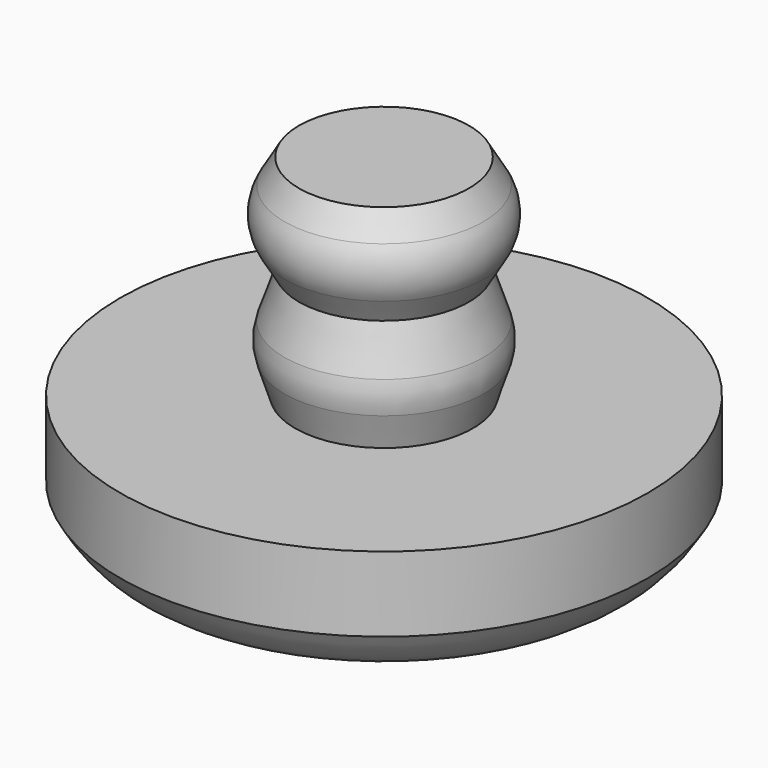
from build123d import *


with BuildPart() as f1:
    # F0 (on Front) → F1 (revolve)
    with BuildSketch(Plane.XZ):
        with BuildLine():
            Line((-32.3, -22), (-34, -22))
            Line((-34, -22), (-34.2897262281, -22.4944133585))
            ThreePointArc((-34.2897262281, -22.4944133585), (-34.4269503893, -23), (-34.2897262281, -23.5055866415))
            Line((-34.2897262281, -23.5055866415), (-34, -24))
            Line((-34, -24), (-34.2935919125, -24.8799841854))
            ThreePointArc((-34.2935919125, -24.8799841854), (-34.346391508, -25.1992318203), (-34.2972906163, -25.5190692042))
            Line((-34.2972906163, -25.5190692042), (-34.0791811968, -26.1989215612))
            Line((-34.0791811968, -26.1989215612), (-37.5791811968, -26.1989215612))
            Line((-37.5791811968, -26.1989215612), (-37.5791811968, -27.6989215612))
            add(Edge.make_bspline(
                [(-37.5791811968, -27.6989215612), (-37.3808677601, -28.0283616037), (-36.7996539252, -28.982329307), (-34.103843932, -28.9948503074), (-32.3, -29)],
                knots=[0, 0, 0, 0, 0.3432241491, 1, 1, 1, 1], degree=3))
            Line((-32.3, -29), (-32.3, -22))
        make_face()
    revolve(axis=Axis((-32.3, 0, -25.5), (0, 0, -1)))


solid = f1.part
